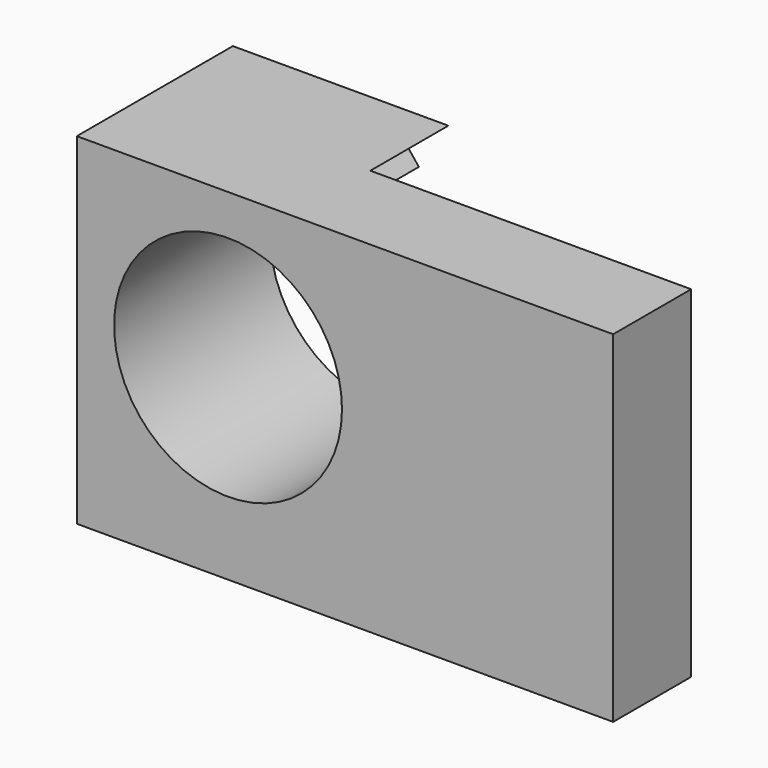
from build123d import *

# Parameters (mm, degrees)
F0_W     = 69.85
F0_H     = 44.45
F1_DEPTH = 25.4
F3_DEPTH = 12.7
F4_R     = 14.840288
F5_DEPTH = 25.401


with BuildPart() as f1:
    # F0 (on Front) → F1 (new body)
    with BuildSketch(Plane.XZ):
        with Locations((34.925, 22.225)):
            Rectangle(F0_W, F0_H)
    extrude(amount=F1_DEPTH)

    # F2 (on Front) → F3 (cut, symmetric)
    with BuildSketch(Plane.XZ):
        Polygon((69.931224, 45.74215), (19.692384, 44.191573), (54.735523, 0), (69.931224, 0), align=None)
    extrude(amount=F3_DEPTH, both=True, mode=Mode.SUBTRACT)

    # F4 (on Front) → F5 (cut, through all)
    with BuildSketch(Plane.XZ):
        with Locations((19.692384, 24.344128)):
            Circle(F4_R)
    extrude(amount=F5_DEPTH, mode=Mode.SUBTRACT)


solid = f1.part
